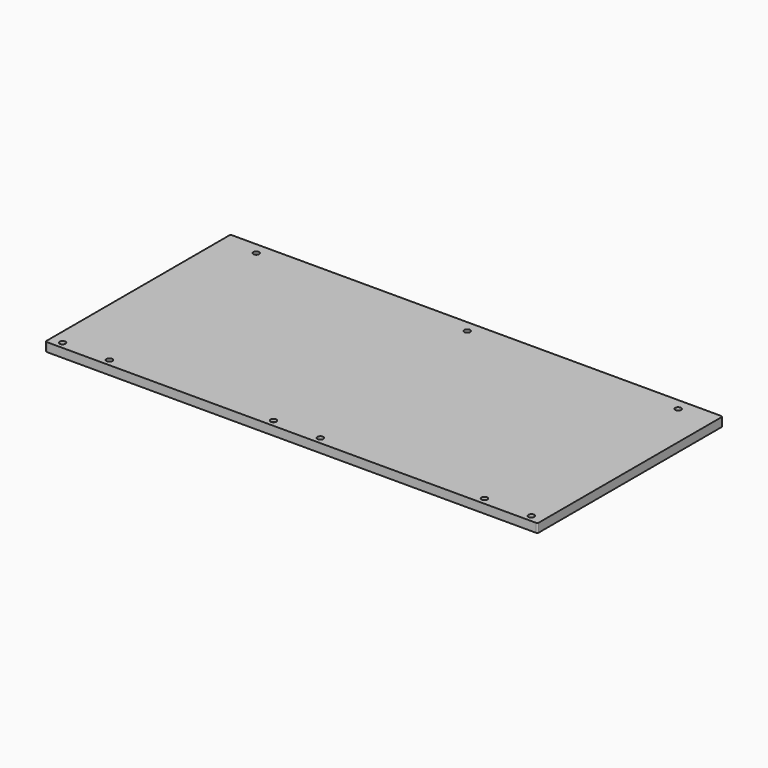
from build123d import *

# Parameters (mm, degrees)
F2_R     = 6.35
F2_R_2   = 2.54
F3_DEPTH = 19.05
F4_R     = 6.35
F5_DEPTH = 6.35


with BuildPart() as f3:
    # F2 (on Top) → F3 (new body)
    with BuildSketch(Plane.XY):
        with BuildLine():
            Line((-54.610017, 293.878014), (-584.830017, 293.878014))
            ThreePointArc((-584.830017, 293.878014), (-587.078617, 292.946614), (-588.010017, 290.698014))
            Line((-588.010017, 290.698014), (-588.010017, 43.053014))
            Line((-588.010017, 43.053014), (-588.010017, -204.591986))
            ThreePointArc((-588.010017, -204.591986), (-587.078617, -206.840586), (-584.830017, -207.771986))
            Line((-584.830017, -207.771986), (-54.610017, -207.771986))
            Line((-54.610017, -207.771986), (475.609983, -207.771986))
            ThreePointArc((475.609983, -207.771986), (477.858583, -206.840586), (478.789983, -204.591986))
            Line((478.789983, -204.591986), (478.789983, 43.053014))
            Line((478.789983, 43.053014), (478.789983, 290.698014))
            ThreePointArc((478.789983, 290.698014), (477.858583, 292.946614), (475.609983, 293.878014))
            Line((475.609983, 293.878014), (-54.610017, 293.878014))
        make_face()
        with Locations((-562.610017, -192.771986)):
            Circle(F2_R, mode=Mode.SUBTRACT)
        with Locations((-461.010017, -192.771986)):
            Circle(F2_R, mode=Mode.SUBTRACT)
        with Locations((-105.410017, -192.771986)):
            Circle(F2_R, mode=Mode.SUBTRACT)
        with Locations((-3.810017, -192.771986)):
            Circle(F2_R, mode=Mode.SUBTRACT)
        with Locations((351.789983, -192.771986)):
            Circle(F2_R, mode=Mode.SUBTRACT)
        with Locations((453.389983, -192.771986)):
            Circle(F2_R, mode=Mode.SUBTRACT)
        with Locations((-511.810017, 268.478014)):
            Circle(F2_R, mode=Mode.SUBTRACT)
        with BuildLine():
            ThreePointArc((-54.663885, 274.827786), (-54.610017, 274.828014), (-54.556149, 274.827786))
            ThreePointArc((-54.556149, 274.827786), (-48.260026, 268.467072), (-54.578033, 262.128095))
            ThreePointArc((-54.578033, 262.128095), (-54.610017, 262.128014), (-54.642001, 262.128095))
            ThreePointArc((-54.642001, 262.128095), (-60.960008, 268.467072), (-54.663885, 274.827786))
        make_face(mode=Mode.SUBTRACT)
        with Locations((402.589983, 268.478014)):
            Circle(F2_R, mode=Mode.SUBTRACT)
        with Locations((-511.810017, 268.478014)):
            Circle(F2_R)
        with Locations((-511.810017, 268.478014)):
            Circle(F2_R_2, mode=Mode.SUBTRACT)
        with BuildLine():
            ThreePointArc((-54.578033, 262.128095), (-48.260026, 268.467072), (-54.556149, 274.827786))
            ThreePointArc((-54.556149, 274.827786), (-54.610017, 274.828014), (-54.663885, 274.827786))
            ThreePointArc((-54.663885, 274.827786), (-60.960008, 268.467072), (-54.642001, 262.128095))
            ThreePointArc((-54.642001, 262.128095), (-54.610017, 262.128014), (-54.578033, 262.128095))
        make_face()
        with BuildLine():
            ThreePointArc((-54.610017, 265.938014), (-57.150017, 268.478014), (-54.610017, 271.018014))
            ThreePointArc((-54.610017, 271.018014), (-52.070017, 268.478014), (-54.610017, 265.938014))
        make_face(mode=Mode.SUBTRACT)
        with Locations((402.589983, 268.478014)):
            Circle(F2_R)
        with Locations((402.589983, 268.478014)):
            Circle(F2_R_2, mode=Mode.SUBTRACT)
        with Locations((453.389983, -192.771986)):
            Circle(F2_R)
        with Locations((453.389983, -192.771986)):
            Circle(F2_R_2, mode=Mode.SUBTRACT)
        with Locations((351.789983, -192.771986)):
            Circle(F2_R)
        with Locations((351.789983, -192.771986)):
            Circle(F2_R_2, mode=Mode.SUBTRACT)
        with Locations((-3.810017, -192.771986)):
            Circle(F2_R)
        with Locations((-3.810017, -192.771986)):
            Circle(F2_R_2, mode=Mode.SUBTRACT)
        with Locations((-105.410017, -192.771986)):
            Circle(F2_R)
        with Locations((-105.410017, -192.771986)):
            Circle(F2_R_2, mode=Mode.SUBTRACT)
        with Locations((-461.010017, -192.771986)):
            Circle(F2_R)
        with Locations((-461.010017, -192.771986)):
            Circle(F2_R_2, mode=Mode.SUBTRACT)
        with Locations((-562.610017, -192.771986)):
            Circle(F2_R)
        with Locations((-562.610017, -192.771986)):
            Circle(F2_R_2, mode=Mode.SUBTRACT)
    extrude(amount=F3_DEPTH)

    # F4 (on face) → F5 (cut)
    with BuildSketch(Plane.XY.offset(19.05)):
        with Locations((-511.810017, 268.478014)):
            Circle(F4_R)
        with BuildLine():
            ThreePointArc((-54.556149, 274.827786), (-60.959872, 268.52094), (-54.642001, 262.128095))
            ThreePointArc((-54.642001, 262.128095), (-48.260162, 268.435088), (-54.556149, 274.827786))
        make_face()
        with Locations((402.589983, 268.478014)):
            Circle(F4_R)
        with Locations((453.389983, -192.771986)):
            Circle(F4_R)
        with Locations((351.789983, -192.771986)):
            Circle(F4_R)
        with Locations((-3.810017, -192.771986)):
            Circle(F4_R)
        with Locations((-105.410017, -192.771986)):
            Circle(F4_R)
        with Locations((-461.010017, -192.771986)):
            Circle(F4_R)
        with Locations((-562.610017, -192.771986)):
            Circle(F4_R)
    extrude(amount=-F5_DEPTH, mode=Mode.SUBTRACT)


solid = f3.part
